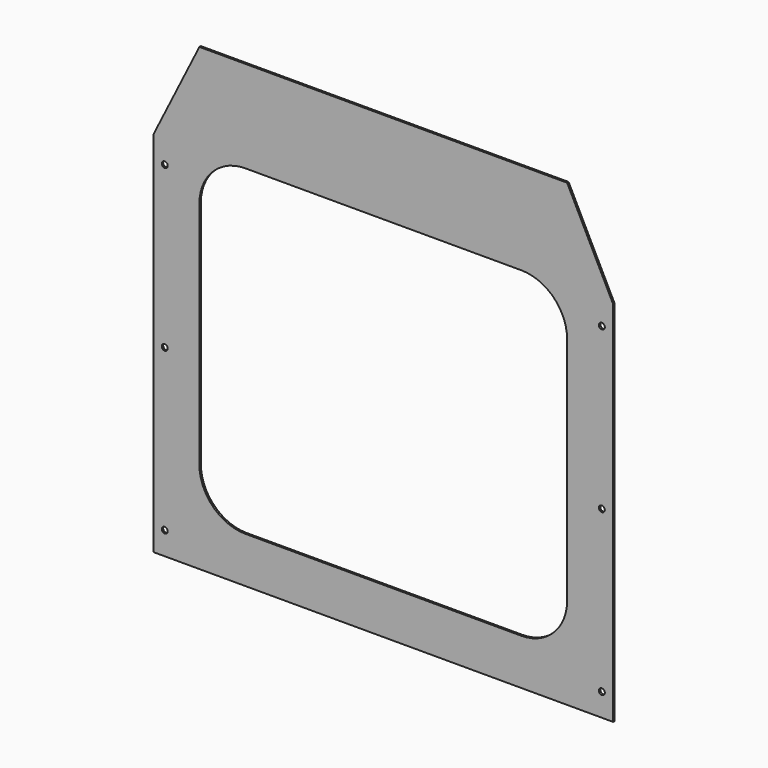
from build123d import *

# Parameters (mm, degrees)
F1_DEPTH = 2
F3_DEPTH = 2.001
F4_W     = 3
F4_H     = 69.7761774063
F5_DEPTH = 3
F7_D     = 6.6


with BuildPart() as f1:
    # F0 (on Front) → F1 (new body)
    with BuildSketch(Plane.XZ):
        Polygon((-307.3464844827, 210.4111198679), (-307.3464844827, -195.9888801321), (200.6535155173, -195.9888801321), (200.6535155173, 210.4111198679), (149.8535155173, 312.0111198679), (-256.5464844827, 312.0111198679), align=None)
    extrude(amount=F1_DEPTH)

    # F2 (on face) → F3 (cut, through all)
    with BuildSketch(Plane.XZ.offset(2)):
        with BuildLine():
            Line((99.0535155173, 210.4111198679), (-205.7464844827, 210.4111198679))
            ThreePointArc((-205.7464844827, 210.4111198679), (-241.667508967, 195.5321443521), (-256.5464844827, 159.6111198679))
            Line((-256.5464844827, 159.6111198679), (-256.5464844827, -94.3888801321))
            ThreePointArc((-256.5464844827, -94.3888801321), (-241.667508967, -130.3099046164), (-205.7464844827, -145.1888801321))
            Line((-205.7464844827, -145.1888801321), (99.0535155173, -145.1888801321))
            ThreePointArc((99.0535155173, -145.1888801321), (134.9745400016, -130.3099046164), (149.8535155173, -94.3888801321))
            Line((149.8535155173, -94.3888801321), (149.8535155173, 159.6111198679))
            ThreePointArc((149.8535155173, 159.6111198679), (134.9745400016, 195.5321443521), (99.0535155173, 210.4111198679))
        make_face()
    extrude(amount=-F3_DEPTH, mode=Mode.SUBTRACT)

    # F4 (on face) → F5 (join)
    with BuildSketch(Plane.XZ.offset(2)):
        with Locations((-21.4731446389, 260.3619992733)):
            Rectangle(F4_W, F4_H)
    extrude(amount=-F5_DEPTH)

    # F7 (through all)
    with Locations(Plane.XZ.offset(2)):
        with Locations((-294.8464844827, 185.0111198679), (-294.8464844827, 7.2111198679), (-294.8464844827, -170.5888801321), (188.1535155173, -170.5888801321), (188.1535155173, 7.2111198679), (188.1535155173, 185.0111198679)):
            Hole(F7_D / 2)


solid = f1.part
